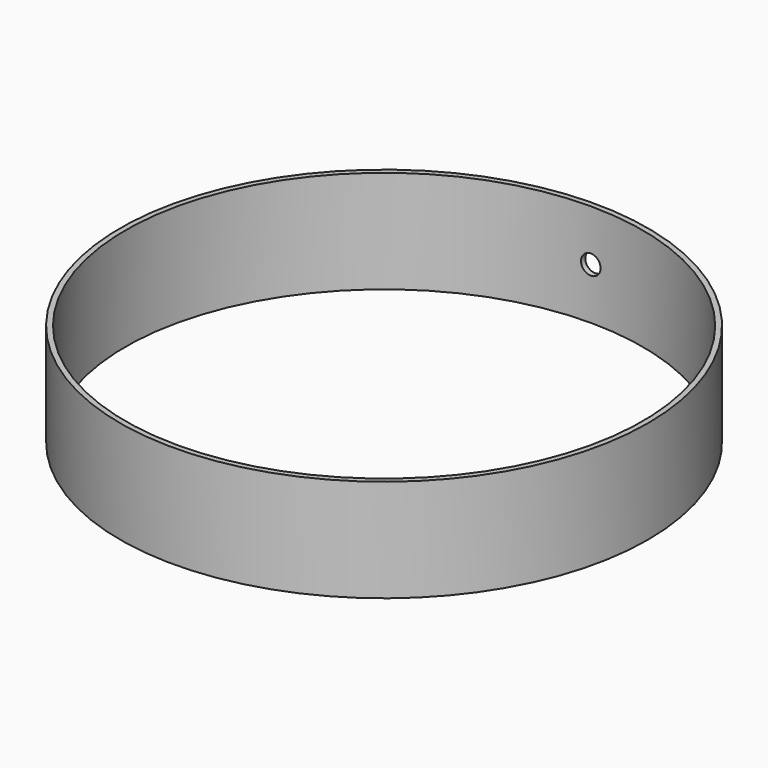
from build123d import *

# Parameters (mm, degrees)
F0_W     = 49
F0_H     = 19.05
F1_W     = 48
F1_H     = 19.05
F5_D     = 3.6322
F5_DEPTH = 49.001


with BuildPart() as f2:
    # F0 (on Front) → F2 (revolve)
    with BuildSketch(Plane.XZ):
        with Locations((24.5, -9.525)):
            Rectangle(F0_W, F0_H)
    revolve(axis=Axis((0, 0, -9.525), (0, 0, -1)))

    # F1 (on Right) → F3 (revolve, cut)
    with BuildSketch(Plane.YZ):
        with Locations((-24, -9.525)):
            Rectangle(F1_W, F1_H)
    revolve(axis=Axis((0, 0, -9.525), (0, 0, -1)), mode=Mode.SUBTRACT)

    # F5 (through all, one way)
    with BuildSketch(Plane.XZ):
        with Locations((0, -9.525)):
            Circle(F5_D / 2)
    extrude(amount=-F5_DEPTH, mode=Mode.SUBTRACT)


solid = f2.part
